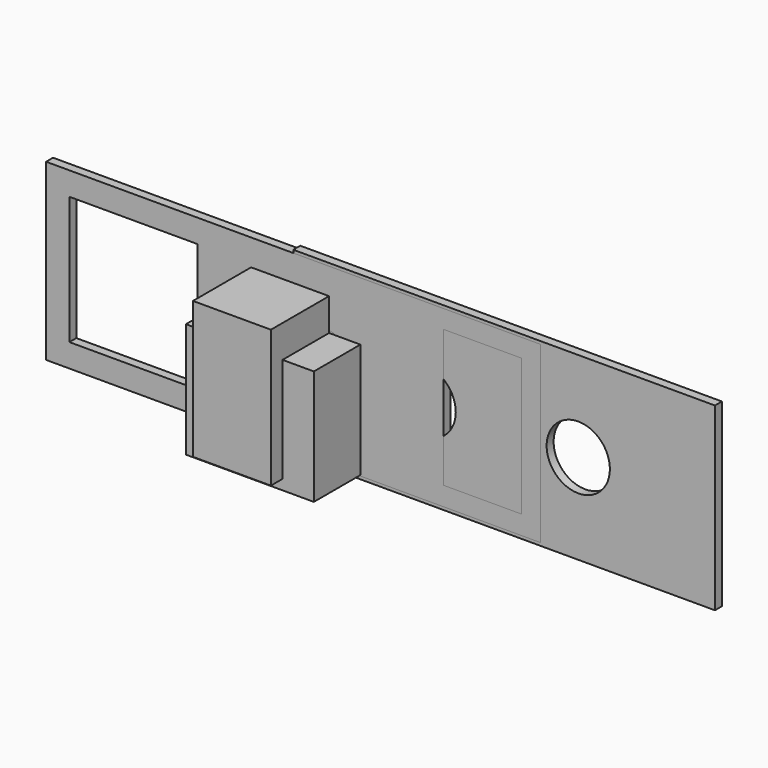
from build123d import *

# Parameters (mm, degrees)
F0_W     = 26.8
F0_H     = 47.2
F1_DEPTH = 28
F2_W     = 44
F2_H     = 39.5
F3_DEPTH = 23
F4_R     = 10.875
F5_DEPTH = 25
F6_W     = 145
F6_H     = 62
F6_R     = 10.875
F7_DEPTH = 3
F8_W     = 44
F8_H     = 44
F8_R     = 10.875
F9_DEPTH = 3


with BuildPart() as f1:
    # F0 (on Front) → F1 (new body)
    with BuildSketch(Plane.XZ):
        with Locations((-1.093476, -2.643221)):
            Rectangle(F0_W, F0_H)
    extrude(amount=F1_DEPTH)


with BuildPart() as f3:
    # F2 (on Front) → F3 (new body)
    with BuildSketch(Plane.XZ):
        with Locations((1.078436, -9.956353)):
            Rectangle(F2_W, F2_H)
    extrude(amount=F3_DEPTH)


with BuildPart() as f5:
    # F4 (on Front) → F5 (new body)
    with BuildSketch(Plane.XZ):
        Circle(F4_R)
    extrude(amount=F5_DEPTH)


with BuildPart() as f7:
    # F6 (on Front) → F7 (new body)
    with BuildSketch(Plane.XZ):
        with Locations((72.5, 0)):
            Rectangle(F6_W, F6_H)
        with Locations((45, 0)):
            Circle(F6_R, mode=Mode.SUBTRACT)
        with Locations((98, 0)):
            Circle(F6_R, mode=Mode.SUBTRACT)
    extrude(amount=F7_DEPTH)


with BuildPart() as f9:
    # F8 (on Front) → F9 (new body)
    with BuildSketch(Plane.XZ):
        Polygon((-85, 30), (-85, 0), (-85, -30), (85, -30), (85, 0), (85, 30), align=None)
        with Locations((-55, 0)):
            Rectangle(F8_W, F8_H, mode=Mode.SUBTRACT)
        with Locations((10.1, 0)):
            Circle(F8_R, mode=Mode.SUBTRACT)
        Polygon((51.7, 23.7), (65.1, 23.7), (78.5, 23.7), (78.5, -23.5), (65.1, -23.5), (51.7, -23.5), align=None, mode=Mode.SUBTRACT)
    extrude(amount=F9_DEPTH)


solid = Compound([f1.part, f3.part, f5.part, f7.part, f9.part])
